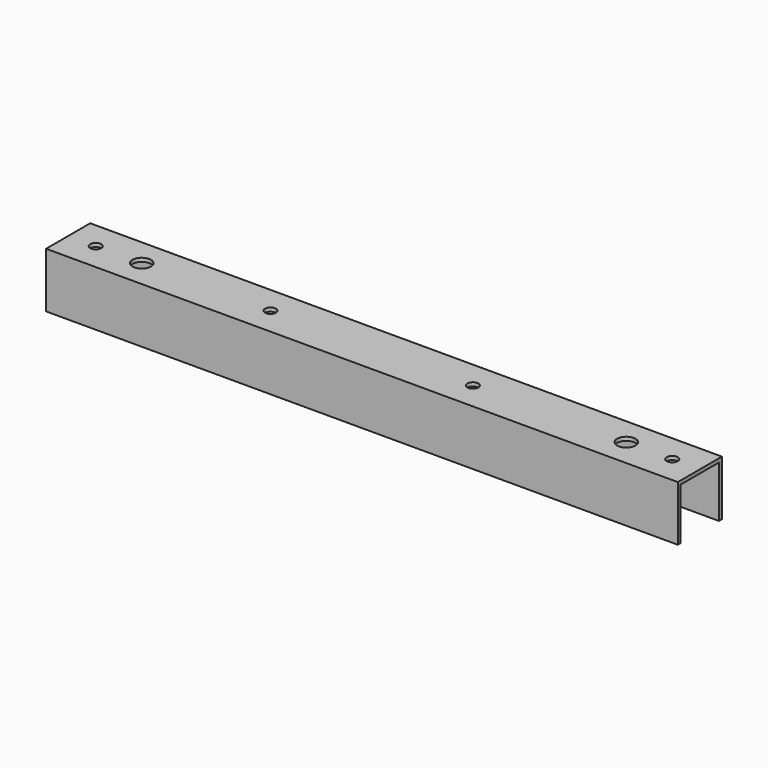
from build123d import *

# Parameters (mm, degrees)
F1_DEPTH = 171.7
F2_R     = 1.5
F2_R_2   = 2.5
F3_DEPTH = 1


with BuildPart() as f1:
    # F0 (on Right) → F1 (new body)
    with BuildSketch(Plane.YZ):
        Polygon((7.5, -7.5), (7.5, 7.5), (-7.5, 7.5), (-7.5, -7.5), (-6.5, -7.5), (-6.5, 6.5), (6.5, 6.5), (6.5, -7.5), align=None)
    extrude(amount=F1_DEPTH)

    # F2 (on face) → F3 (cut, through all)
    with BuildSketch(Plane.XY.offset(7.5)):
        with Locations((7.5, 0)):
            Circle(F2_R)
        with Locations((55, 0)):
            Circle(F2_R)
        with Locations((110, 0)):
            Circle(F2_R)
        with Locations((164.2, 0)):
            Circle(F2_R)
        with Locations((20, 0)):
            Circle(F2_R_2)
        with Locations((151.7, 0)):
            Circle(F2_R_2)
    extrude(amount=-F3_DEPTH, mode=Mode.SUBTRACT)


solid = f1.part
